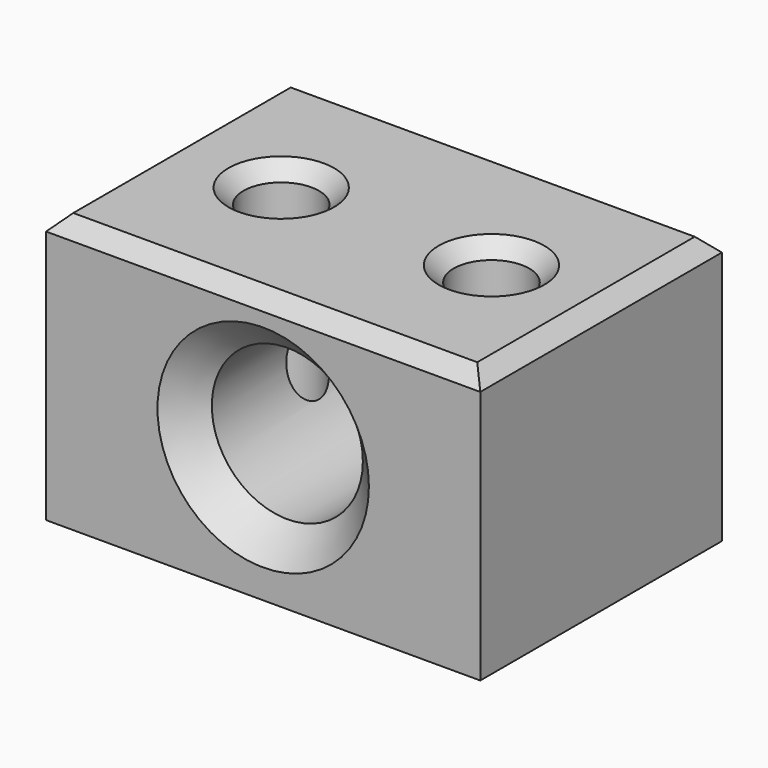
from build123d import *

# Parameters (mm, degrees)
F0_W     = 73.031252
F0_H     = 45.270924
F0_R     = 12.7
F1_DEPTH = 50.8
F3_D     = 12.7
F4_SIZE  = 5.08
F5_SIZE  = 2.54


with BuildPart() as f1:
    # F0 (on Front) → F1 (new body)
    with BuildSketch(Plane.XZ):
        Rectangle(F0_W, F0_H)
        Circle(F0_R, mode=Mode.SUBTRACT)
    extrude(amount=F1_DEPTH)

    # F3 (through all)
    with Locations(Plane.XY.offset(22.635462)):
        with Locations((-17.163437, -25.553048), (18.195821, -25.553048)):
            Hole(F3_D / 2)

    # F4
    f4_edges = [f1.edges().sort_by_distance(p)[0] for p in [
        (-12.7, -50.8, 0),
    ]]
    chamfer(f4_edges, length=F4_SIZE)

    # F5
    f5_edges = [f1.edges().sort_by_distance(p)[0] for p in [
        (36.515626, -25.4, 22.635462),
        (0, 0, 22.635462),
        (0, -50.8, 22.635462),
        (-36.515626, -25.4, 22.635462),
        (11.845821, -25.553048, 22.635462),
        (-23.513437, -25.553048, 22.635462),
    ]]
    chamfer(f5_edges, length=F5_SIZE)


solid = f1.part
